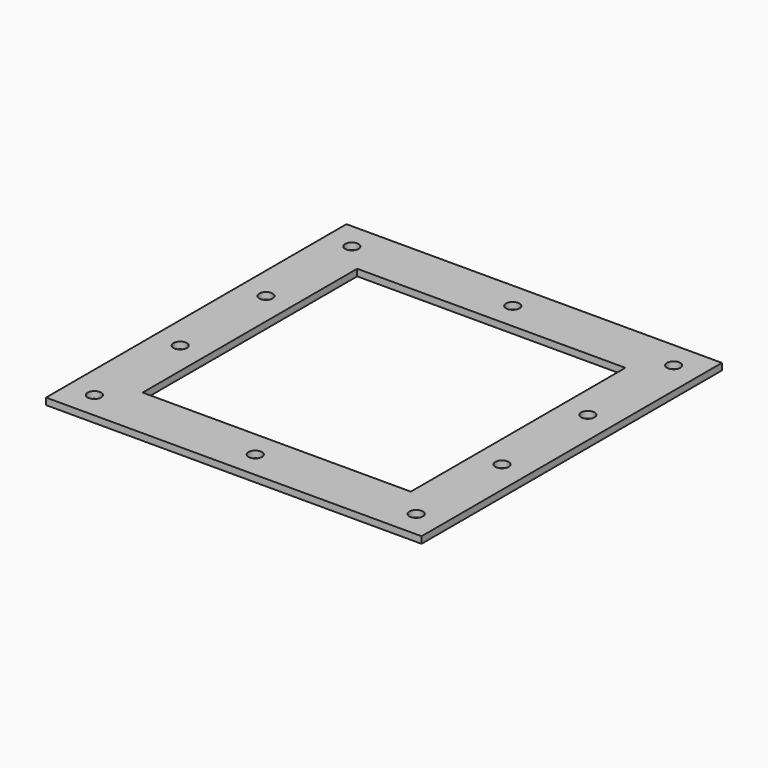
from build123d import *

# Parameters (mm, degrees)
F0_W     = 355.6
F0_H     = 355.6
F0_W_2   = 254
F0_H_2   = 254
F1_DEPTH = 6.35
F2_R     = 6.35
F3_DEPTH = 25.4


with BuildPart() as f1:
    # F0 (on Top) → F1 (new body)
    with BuildSketch(Plane.XY):
        Rectangle(F0_W, F0_H)
        Rectangle(F0_W_2, F0_H_2, mode=Mode.SUBTRACT)
    extrude(amount=F1_DEPTH)

    # F2 (on face) → F3 (cut)
    with BuildSketch(Plane.XY.offset(6.35)):
        with Locations((-152.4, -50.8)):
            Circle(F2_R)
        with Locations((-152.4, -152.4)):
            Circle(F2_R)
        with Locations((0, -152.4)):
            Circle(F2_R)
        with Locations((152.4, -152.4)):
            Circle(F2_R)
        with Locations((152.4, -50.8)):
            Circle(F2_R)
        with Locations((152.4, 50.8)):
            Circle(F2_R)
        with Locations((152.4, 152.4)):
            Circle(F2_R)
        with Locations((0, 152.4)):
            Circle(F2_R)
        with Locations((-152.4, 152.4)):
            Circle(F2_R)
        with Locations((-152.4, 50.8)):
            Circle(F2_R)
    extrude(amount=-F3_DEPTH, mode=Mode.SUBTRACT)


solid = f1.part
